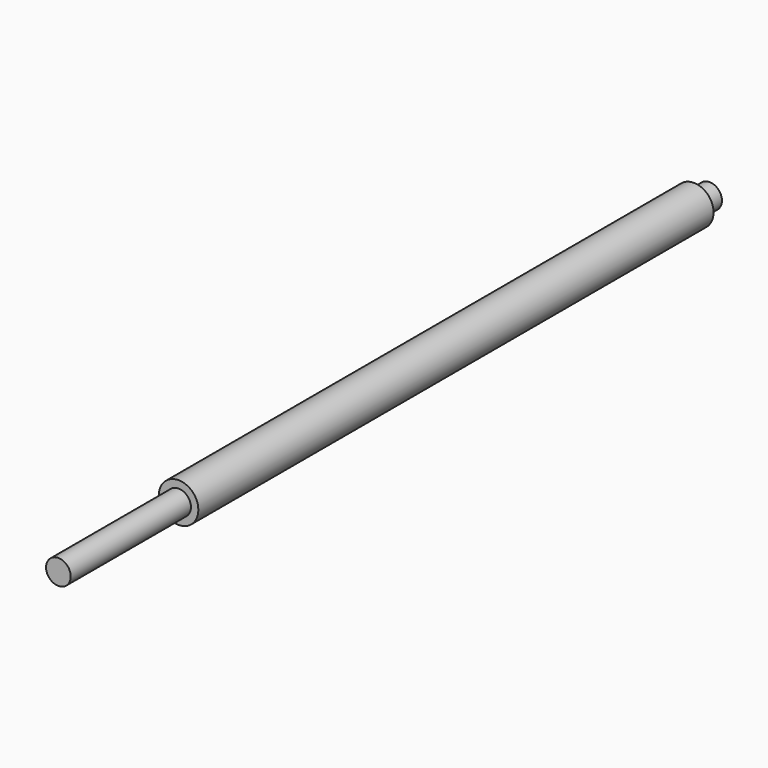
from build123d import *

# Parameters (mm, degrees)
F0_R     = 4
F1_DEPTH = 134.62
F2_R     = 4
F2_R_2   = 2.5
F3_DEPTH = 4
F4_R     = 2.5
F5_DEPTH = 30.48


with BuildPart() as f1:
    # F0 (on Front) → F1 (new body)
    with BuildSketch(Plane.XZ):
        Circle(F0_R)
    extrude(amount=F1_DEPTH)

    # F2 (on face) → F3 (cut)
    with BuildSketch(Plane(origin=(0, 0, 0), x_dir=(-1, 0, 0), z_dir=(0, 1, 0))):
        Circle(F2_R)
        Circle(F2_R_2, mode=Mode.SUBTRACT)
    extrude(amount=-F3_DEPTH, mode=Mode.SUBTRACT)

    # F4 (on face) → F5 (join)
    with BuildSketch(Plane.XZ.offset(134.62)):
        Circle(F4_R)
    extrude(amount=F5_DEPTH)


solid = f1.part
